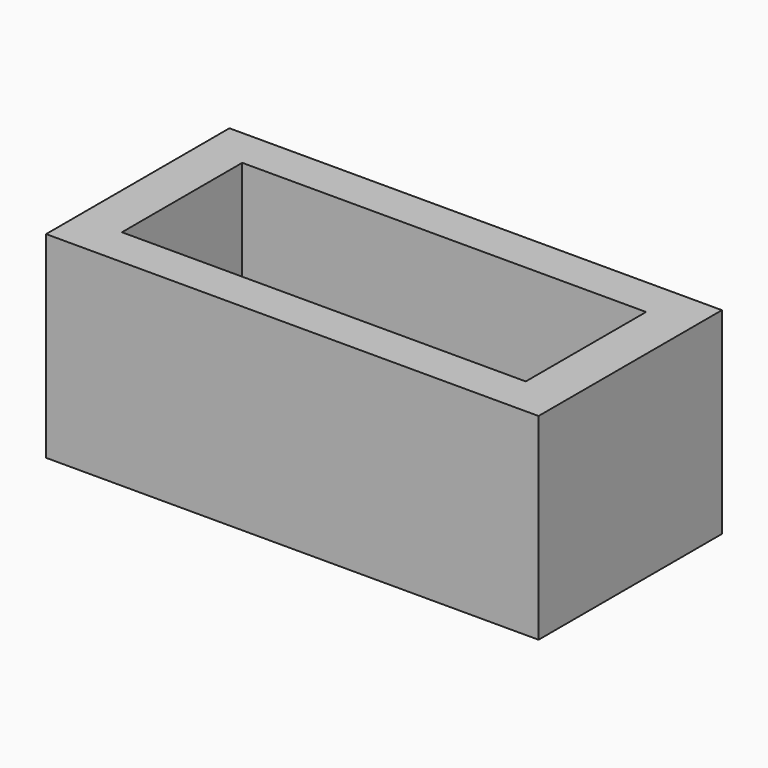
from build123d import *

# Parameters (mm, degrees)
F0_W     = 82
F0_H     = 30.538467
F1_DEPTH = 40
F0_W_2   = 31
F0_H_2   = 24.538467
F2_DEPTH = 7


with BuildPart() as f1:
    # F0 (on Top) → F1 (new body)
    with BuildSketch(Plane.XY):
        Polygon((0, 23.057694), (-50, 23.057694), (-50, -23.480773), (50, -23.480773), (50, 0), (50, 23.057694), align=None)
        with Locations((0, -0.211539)):
            Rectangle(F0_W, F0_H, mode=Mode.SUBTRACT)
    extrude(amount=F1_DEPTH)


with BuildPart() as f2:
    # F0 (on Top) → F2 (new body)
    with BuildSketch(Plane.XY):
        with Locations((0, -0.211539)):
            Rectangle(F0_W, F0_H)
        with Locations((-22.5, -0.211539)):
            Rectangle(F0_W_2, F0_H_2, mode=Mode.SUBTRACT)
        with Locations((22.5, -0.211539)):
            Rectangle(F0_W_2, F0_H_2, mode=Mode.SUBTRACT)
    extrude(amount=F2_DEPTH)


solid = Compound([f1.part, f2.part])
